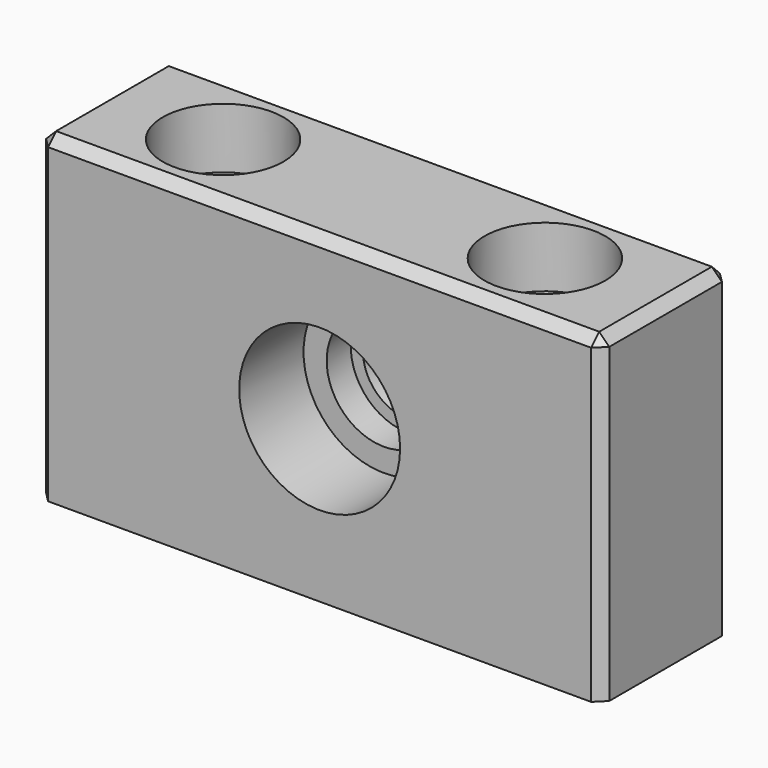
from build123d import *

# Parameters (mm, degrees)
F0_W      = 28
F0_H      = 16
F1_DEPTH  = 8
F2_R      = 4
F3_DEPTH  = 4
F4_R      = 2.85
F5_DEPTH  = 1.5
F6_R      = 2.25
F7_DEPTH  = 25
F8_R      = 3
F10_DEPTH = 3
F9_R      = 3
F11_DEPTH = 3
F12_R     = 1.6
F14_DEPTH = 25
F13_R     = 1.6
F15_DEPTH = 25
F16_SIZE  = 0.5


with BuildPart() as f1:
    # F0 (on Front) → F1 (new body)
    with BuildSketch(Plane.XZ):
        with Locations((14, 8)):
            Rectangle(F0_W, F0_H)
    extrude(amount=F1_DEPTH)

    # F2 (on face) → F3 (cut)
    with BuildSketch(Plane.XZ.offset(8)):
        with Locations((14, 8)):
            Circle(F2_R)
    extrude(amount=-F3_DEPTH, mode=Mode.SUBTRACT)

    # F4 (on face) → F5 (cut)
    with BuildSketch(Plane.XZ.offset(4)):
        with Locations((14, 8)):
            Circle(F4_R)
    extrude(amount=-F5_DEPTH, mode=Mode.SUBTRACT)

    # F6 (on face) → F7 (cut)
    with BuildSketch(Plane.XZ.offset(2.5)):
        with Locations((14, 8)):
            Circle(F6_R)
    extrude(amount=-F7_DEPTH, mode=Mode.SUBTRACT)

    # F8 (on face) → F10 (cut)
    with BuildSketch(Plane.XY.offset(16)):
        with Locations((6, -4)):
            Circle(F8_R)
    extrude(amount=-F10_DEPTH, mode=Mode.SUBTRACT)

    # F9 (on face) → F11 (cut)
    with BuildSketch(Plane.XY.offset(16)):
        with Locations((22, -4)):
            Circle(F9_R)
    extrude(amount=-F11_DEPTH, mode=Mode.SUBTRACT)

    # F12 (on face) → F14 (cut)
    with BuildSketch(Plane.XY.offset(13)):
        with Locations((6, -4)):
            Circle(F12_R)
    extrude(amount=-F14_DEPTH, mode=Mode.SUBTRACT)

    # F13 (on face) → F15 (cut)
    with BuildSketch(Plane.XY.offset(13)):
        with Locations((22, -4)):
            Circle(F13_R)
    extrude(amount=-F15_DEPTH, mode=Mode.SUBTRACT)

    # F16
    f16_edges = [f1.edges().sort_by_distance(p)[0] for p in [
        (28, -8, 8),
        (28, -4, 16),
        (28, 0, 8),
        (14, -8, 16),
        (14, 0, 16),
        (0, -4, 16),
        (0, -8, 8),
        (0, 0, 8),
    ]]
    chamfer(f16_edges, length=F16_SIZE)


solid = f1.part
